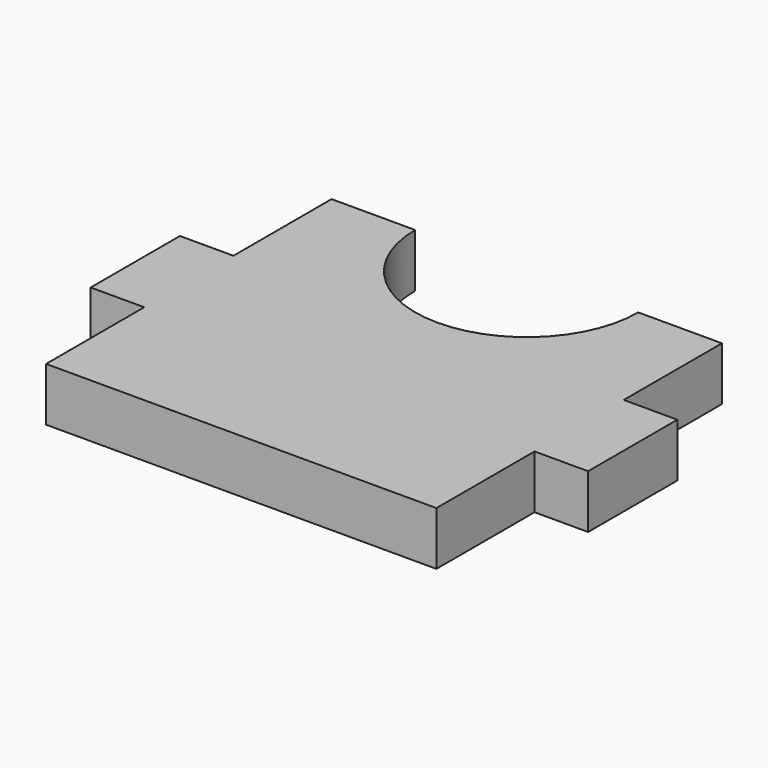
from build123d import *

# Parameters (mm, degrees)
F0_W     = 4.8
F0_H     = 10
F1_DEPTH = 4.8


with BuildPart() as f1:
    # F0 (on Top) → F1 (new body)
    with BuildSketch(Plane.XY):
        with BuildLine():
            Line((0, 11), (0, 0))
            Line((0, 0), (35, 0))
            Line((35, 0), (35, 11))
            Line((35, 11), (35, 21))
            Line((35, 21), (35, 32))
            Line((35, 32), (27.5, 32))
            ThreePointArc((27.5, 32), (17.5, 22), (7.5, 32))
            Line((7.5, 32), (0, 32))
            Line((0, 32), (0, 21))
            Line((0, 21), (0, 11))
        make_face()
        with Locations((-2.4, 16)):
            Rectangle(F0_W, F0_H)
        with Locations((37.4, 16)):
            Rectangle(F0_W, F0_H)
    extrude(amount=F1_DEPTH)


solid = f1.part
